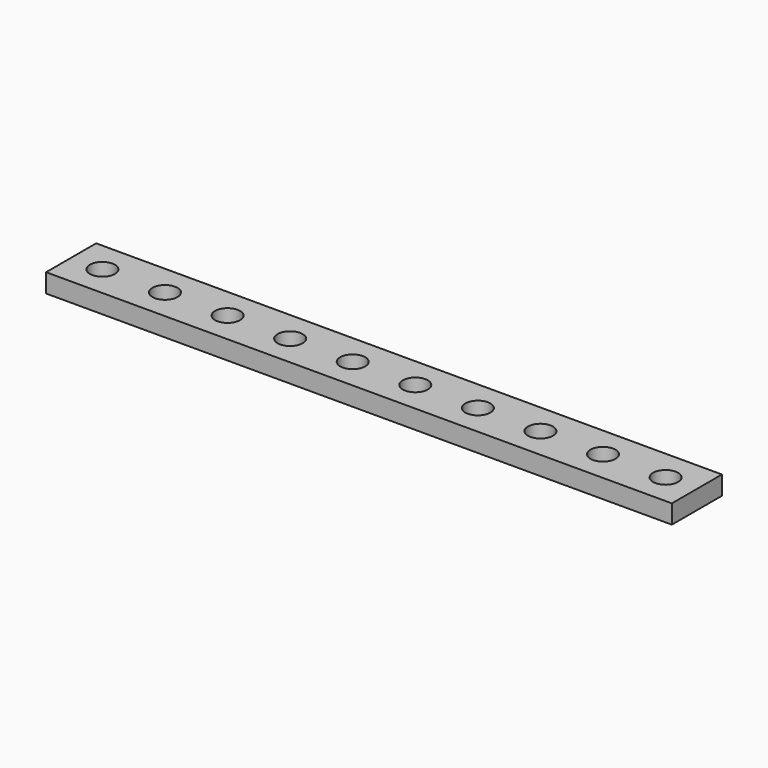
from build123d import *

# Parameters (mm, degrees)
CYLINDER_R     = 2
CYLINDER_DEPTH = 10
ARRAY_X_COUNT  = 10
ARRAY_X_PITCH  = 10
BOX_W          = 100
BOX_H          = 10
BOX_DEPTH      = 3


with BuildPart() as array:
    # Cylinder → Cylinder (new body)
    with BuildSketch(Plane.XY.offset(-5)):
        Circle(CYLINDER_R)
    extrude(amount=CYLINDER_DEPTH)

    # Array X: Array ×10


with BuildPart() as array_1:
    add(array.part)
    with Locations(*[(i * ARRAY_X_PITCH, 0, 0) for i in range(1, ARRAY_X_COUNT)]):
        add(array.part)


with BuildPart() as cut:
    # Box → Box (new body)
    with BuildSketch(Plane(origin=(-5, -5, 0), x_dir=(1, 0, 0), z_dir=(0, 0, 1))):
        with Locations((50, 5)):
            Rectangle(BOX_W, BOX_H)
    extrude(amount=BOX_DEPTH)

    # Cut: cut Array
    add(array_1.part, mode=Mode.SUBTRACT)


solid = cut.part
